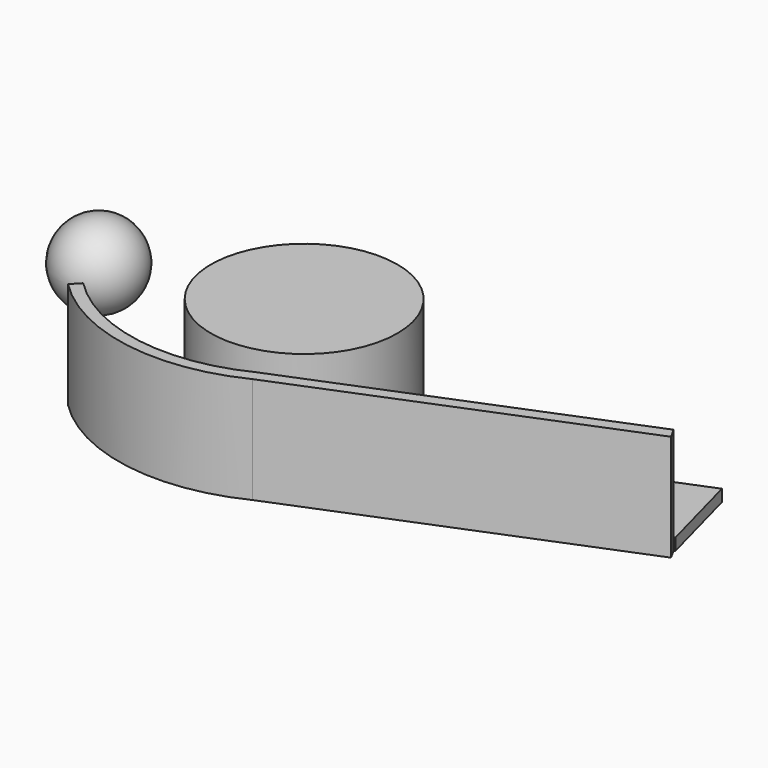
from build123d import *

# Parameters (mm, degrees)
F0_R     = 50.087737
F1_DEPTH = 44.45
F2_R     = 7.742347
F3_DEPTH = 6.35
F5_DEPTH = 57.15


with BuildPart() as f1:
    # F0 (on Top) → F1 (new body)
    with BuildSketch(Plane.XY):
        Circle(F0_R)
    extrude(amount=F1_DEPTH)


with BuildPart() as f3:
    # F2 (on Top) → F3 (new body)
    with BuildSketch(Plane.XY):
        with BuildLine():
            Line((-20.446297, -20.446297), (-65.950249, -65.950249))
            ThreePointArc((-65.950249, -65.950249), (-15.206813, -92.019691), (41.225954, -83.661768))
            Line((41.225954, -83.661768), (211.159874, -14.815901))
            Line((211.159874, -14.815901), (198.68803, 31.989686))
            Line((198.68803, 31.989686), (34.520162, -34.520162))
            Line((34.520162, -34.520162), (20.446297, -20.446297))
            Line((20.446297, -20.446297), (20.446297, 0))
            ThreePointArc((20.446297, 0), (0, 20.446297), (-20.446297, 0))
            Line((-20.446297, 0), (-20.446297, -20.446297))
        make_face()
        Circle(F2_R, mode=Mode.SUBTRACT)
    extrude(amount=F3_DEPTH)


with BuildPart() as f5:
    # F4 (on Top) → F5 (new body)
    with BuildSketch(Plane.XY):
        with BuildLine():
            Line((43.821449, -89.461579), (213.544225, -20.701253))
            Line((213.544225, -20.701253), (210.32686, -15.053405))
            Line((210.32686, -15.053405), (41.37789, -83.500236))
            ThreePointArc((41.37789, -83.500236), (-15.167106, -91.947693), (-66.003412, -65.7873))
            Line((-66.003412, -65.7873), (-70.440377, -70.440377))
            ThreePointArc((-70.440377, -70.440377), (-16.358281, -98.265457), (43.821449, -89.461579))
        make_face()
    extrude(amount=F5_DEPTH)


with BuildPart() as f7:
    # F6 (on Top) → F7 (revolve)
    with BuildSketch(Plane.XY):
        with BuildLine():
            Line((-140.97099, 38.35379), (-140.97099, 60.45179))
            ThreePointArc((-140.97099, 60.45179), (-163.06899, 38.35379), (-140.97099, 16.25579))
            Line((-140.97099, 16.25579), (-140.97099, 38.35379))
        make_face()
    revolve(axis=Axis((-140.97099, 49.40279, 0), (0, 1, 0)))


solid = Compound([f1.part, f3.part, f5.part, f7.part])
